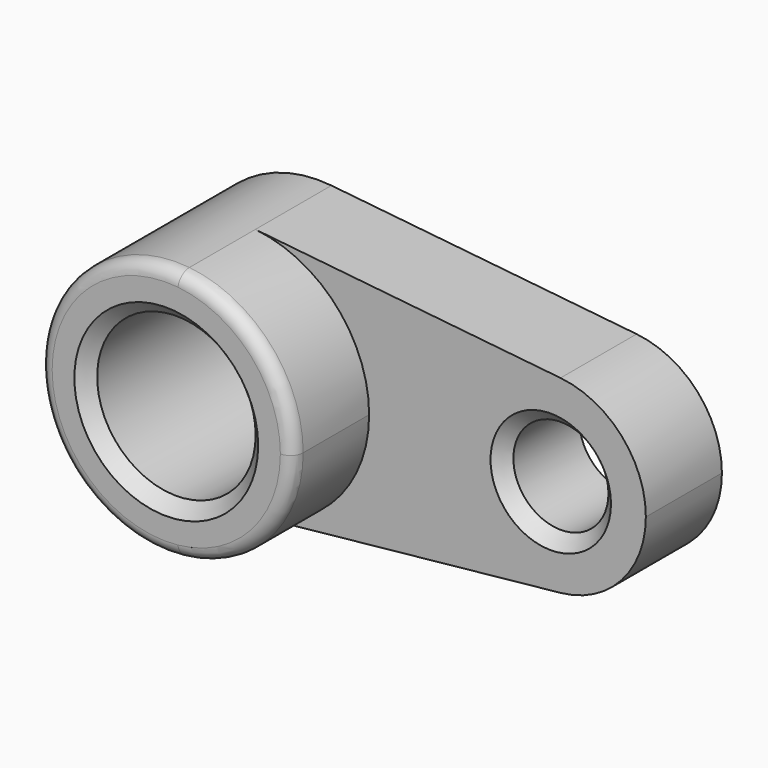
from build123d import *

# Parameters (mm, degrees)
F0_R     = 15.875
F1_DEPTH = 38.1
F0_R_2   = 9.525
F2_DEPTH = 19.05
F3_R     = 2.54
F4_SIZE  = 2.54


with BuildPart() as f1:
    # F0 (on Front) → F1 (new body)
    with BuildSketch(Plane.XZ):
        with BuildLine():
            ThreePointArc((2.610413, -25.265505), (18.860866, -17.012576), (25.4, 0))
            ThreePointArc((25.4, 0), (18.860866, 17.012576), (2.610413, 25.265505))
            ThreePointArc((2.610413, 25.265505), (-25.4, 0), (2.610413, -25.265505))
        make_face()
        Circle(F0_R, mode=Mode.SUBTRACT)
    extrude(amount=F1_DEPTH)

    # F0 (on Front) → F2 (join)
    with BuildSketch(Plane.XZ):
        with BuildLine():
            ThreePointArc((2.610413, -25.265505), (18.860866, -17.012576), (25.4, 0))
            ThreePointArc((25.4, 0), (18.860866, 17.012576), (2.610413, 25.265505))
            ThreePointArc((2.610413, 25.265505), (-25.4, 0), (2.610413, -25.265505))
        make_face()
        Circle(F0_R, mode=Mode.SUBTRACT)
        with BuildLine():
            ThreePointArc((2.610413, 25.265505), (18.860866, 17.012576), (25.4, 0))
            ThreePointArc((25.4, 0), (18.860866, -17.012576), (2.610413, -25.265505))
            Line((2.610413, -25.265505), (63.744959, -18.949129))
            ThreePointArc((63.744959, -18.949129), (42.737149, 0), (63.744959, 18.949129))
            Line((63.744959, 18.949129), (2.610413, 25.265505))
        make_face()
        with BuildLine():
            ThreePointArc((80.837149, 0), (75.932798, 12.759432), (63.744959, 18.949129))
            ThreePointArc((63.744959, 18.949129), (42.737149, 0), (63.744959, -18.949129))
            ThreePointArc((63.744959, -18.949129), (75.932798, -12.759432), (80.837149, 0))
        make_face()
        with Locations((61.787149, 0)):
            Circle(F0_R_2, mode=Mode.SUBTRACT)
    extrude(amount=F2_DEPTH)

    # F3
    f3_edges = [f1.edges().sort_by_distance(p)[0] for p in [
        (-2.610413, -38.1, 25.265505),
    ]]
    fillet(f3_edges, radius=F3_R)

    # F4
    f4_edges = [f1.edges().sort_by_distance(p)[0] for p in [
        (-15.875, -38.1, 0),
        (52.262149, -19.05, 0),
    ]]
    chamfer(f4_edges, length=F4_SIZE)


solid = f1.part
